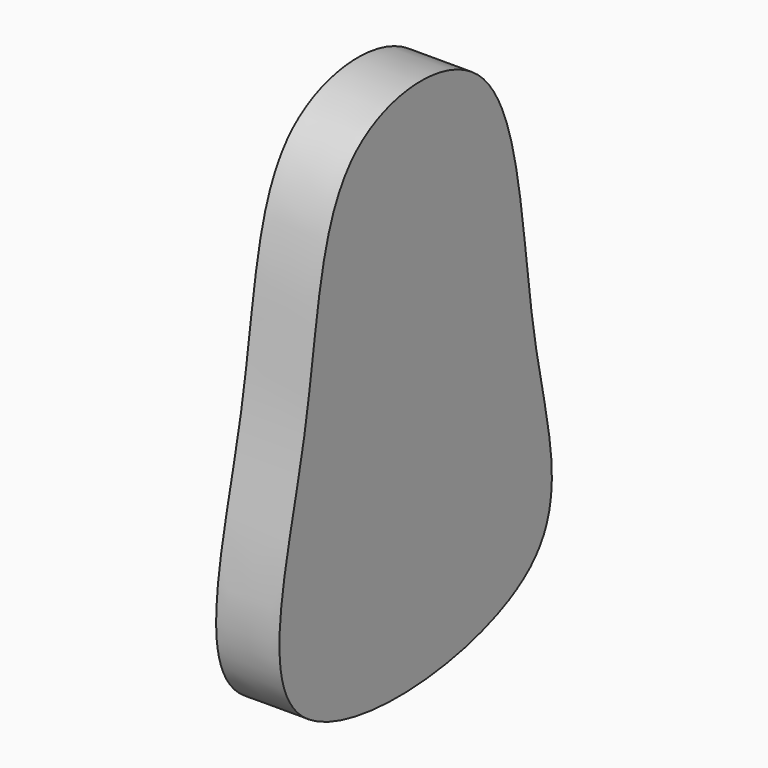
from build123d import *

# Parameters (mm, degrees)
F1_DEPTH = 5.842


with BuildPart() as f1:
    # F0 (on Right) → F1 (new body)
    with BuildSketch(Plane.YZ):
        with BuildLine():
            add(Edge.make_bspline(
                [(-43.6296164989, 28.8626682013), (-41.9252056654, 37.5981854247), (-42.0615603135, 52.5087217183), (-18.4494959725, 53.7476932405), (-18.7058706496, 26.0451343634), (-9.9649961532, 3.7918152371), (-52.7930408301, 0.540980196), (-45.3619427813, 19.98407756), (-43.6296164989, 28.8626682013)],
                knots=[0, 0, 0, 0, 0.1694742541, 0.3050075211, 0.4854424089, 0.6415844469, 0.827750036, 1, 1, 1, 1], degree=3))
        make_face()
    extrude(amount=F1_DEPTH)


solid = f1.part
